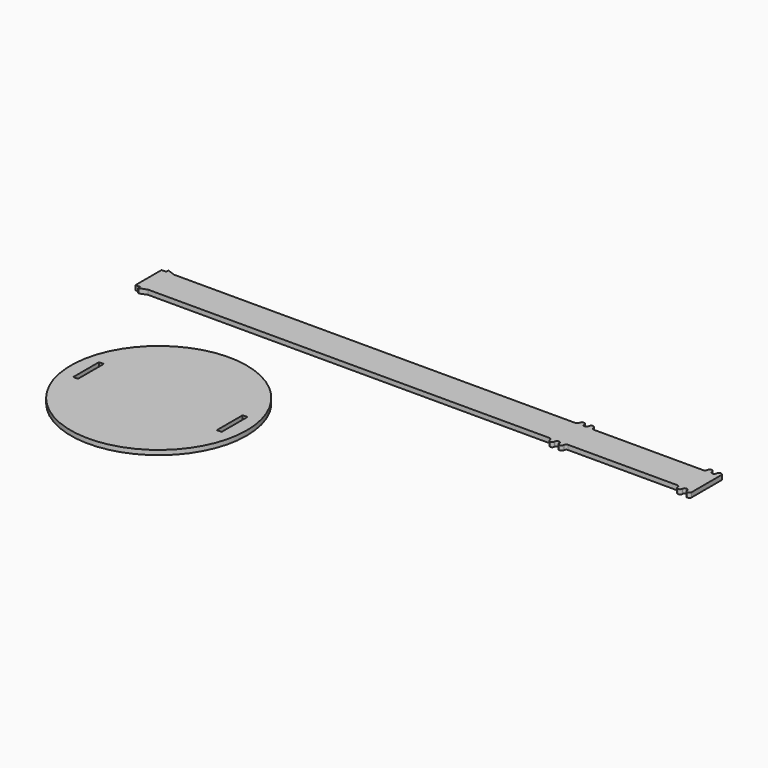
from build123d import *

# Parameters (mm, degrees)
F0_R     = 95
F1_DEPTH = 5


with BuildPart() as f1:
    # F0 (on Top) → F1 (new body)
    with BuildSketch(Plane.XY):
        with Locations((-144.403637, -141.153968)):
            Circle(F0_R)
        Polygon((-219.370451, -121.623101), (-219.370451, -138.923101), (-219.370451, -143.384835), (-219.370451, -156.423101), (-224.570451, -156.423101), (-224.570451, -121.623101), align=None, mode=Mode.SUBTRACT)
        Polygon((-64.236823, -121.623101), (-64.236823, -156.423101), (-69.436823, -156.423101), (-69.436823, -143.384835), (-69.436823, -138.923101), (-69.436823, -121.623101), align=None, mode=Mode.SUBTRACT)
        with BuildLine():
            Line((314.009488, 25.164816), (314.009488, 42.664816))
            Line((314.009488, 42.664816), (314.009488, 45.164816))
            ThreePointArc((314.009488, 45.164816), (313.277255, 46.932583), (311.509488, 47.664816))
            ThreePointArc((311.509488, 47.664816), (309.741722, 46.932583), (309.009488, 45.164816))
            ThreePointArc((309.009488, 45.164816), (308.277255, 43.397049), (306.509488, 42.664816))
            ThreePointArc((306.509488, 42.664816), (304.741722, 43.397049), (304.009488, 45.164816))
            ThreePointArc((304.009488, 45.164816), (303.277255, 46.932583), (301.509488, 47.664816))
            ThreePointArc((301.509488, 47.664816), (299.741722, 46.932583), (299.009488, 45.164816))
            ThreePointArc((299.009488, 45.164816), (298.277255, 43.397049), (296.509488, 42.664816))
            Line((296.509488, 42.664816), (178.501102, 42.664816))
            ThreePointArc((178.501102, 42.664816), (176.733335, 43.397049), (176.001102, 45.164816))
            ThreePointArc((176.001102, 45.164816), (175.268869, 46.932583), (173.501102, 47.664816))
            ThreePointArc((173.501102, 47.664816), (171.733335, 46.932583), (171.001102, 45.164816))
            ThreePointArc((171.001102, 45.164816), (170.268869, 43.397049), (168.501102, 42.664816))
            ThreePointArc((168.501102, 42.664816), (166.733335, 43.397049), (166.001102, 45.164816))
            ThreePointArc((166.001102, 45.164816), (165.268869, 46.932583), (163.501102, 47.664816))
            ThreePointArc((163.501102, 47.664816), (161.733335, 46.932583), (161.001102, 45.164816))
            ThreePointArc((161.001102, 45.164816), (160.268869, 43.397049), (158.501102, 42.664816))
            Line((158.501102, 42.664816), (-275.087506, 42.664816))
            Line((-275.087506, 42.664816), (-282.791351, 45.605856))
            ThreePointArc((-282.791351, 45.605856), (-283.25326, 45.550541), (-283.469679, 45.138738))
            Line((-283.469679, 45.138738), (-283.469679, 42.864816))
            Line((-283.469679, 42.864816), (-283.469679, 42.664816))
            Line((-283.469679, 42.664816), (-288.469679, 42.664816))
            Line((-288.469679, 42.664816), (-288.469679, 7.464816))
            Line((-288.469679, 7.464816), (-283.469679, 7.464816))
            Line((-283.469679, 7.464816), (-283.469679, 5.190894))
            ThreePointArc((-283.469679, 5.190894), (-283.25326, 4.779091), (-282.791351, 4.723777))
            Line((-282.791351, 4.723777), (-275.087506, 7.664816))
            Line((-275.087506, 7.664816), (158.501102, 7.664816))
            ThreePointArc((158.501102, 7.664816), (160.268869, 6.932583), (161.001102, 5.164816))
            ThreePointArc((161.001102, 5.164816), (161.733335, 3.397049), (163.501102, 2.664816))
            ThreePointArc((163.501102, 2.664816), (165.268869, 3.397049), (166.001102, 5.164816))
            ThreePointArc((166.001102, 5.164816), (166.733335, 6.932583), (168.501102, 7.664816))
            ThreePointArc((168.501102, 7.664816), (170.268869, 6.932583), (171.001102, 5.164816))
            ThreePointArc((171.001102, 5.164816), (171.733335, 3.397049), (173.501102, 2.664816))
            ThreePointArc((173.501102, 2.664816), (175.268869, 3.397049), (176.001102, 5.164816))
            ThreePointArc((176.001102, 5.164816), (176.733335, 6.932583), (178.501102, 7.664816))
            Line((178.501102, 7.664816), (296.509488, 7.664816))
            ThreePointArc((296.509488, 7.664816), (298.277255, 6.932583), (299.009488, 5.164816))
            ThreePointArc((299.009488, 5.164816), (299.741722, 3.397049), (301.509488, 2.664816))
            ThreePointArc((301.509488, 2.664816), (303.277255, 3.397049), (304.009488, 5.164816))
            ThreePointArc((304.009488, 5.164816), (304.741722, 6.932583), (306.509488, 7.664816))
            ThreePointArc((306.509488, 7.664816), (308.277255, 6.932583), (309.009488, 5.164816))
            ThreePointArc((309.009488, 5.164816), (309.741722, 3.397049), (311.509488, 2.664816))
            ThreePointArc((311.509488, 2.664816), (313.277255, 3.397049), (314.009488, 5.164816))
            Line((314.009488, 5.164816), (314.009488, 7.664816))
            Line((314.009488, 7.664816), (314.009488, 25.164816))
        make_face()
    extrude(amount=F1_DEPTH)


solid = f1.part
